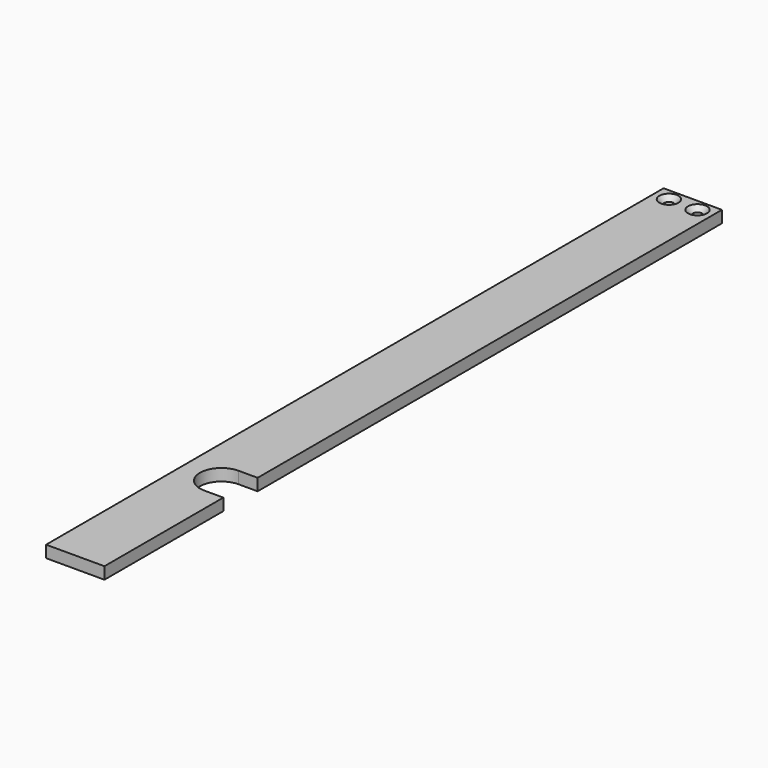
from build123d import *

# Parameters (mm, degrees)
PAD026_DEPTH    = 5
SKETCH058_R     = 2
POCKET036_DEPTH = 5.001
CHAMFER020_SIZE = 2


with BuildPart() as part:
    # Sketch053 → Pad026 (new body)
    with BuildSketch(Plane.XY):
        with BuildLine():
            Line((-81.323184, -45.417713), (-81.323184, -107.8))
            Line((-81.323184, -107.8), (-105.823184, -107.8))
            Line((-105.823184, -107.8), (-105.823184, 216.2))
            Line((-105.823184, 216.2), (-81.323184, 216.2))
            Line((-81.323184, 216.2), (-81.323184, -27.417713))
            Line((-89.323184, -27.417713), (-81.323184, -27.417713))
            ThreePointArc((-89.323184, -27.417713), (-98.323184, -36.417713), (-89.323184, -45.417713))
            Line((-89.323184, -45.417713), (-81.323184, -45.417713))
        make_face()
    extrude(amount=PAD026_DEPTH)

    # Sketch058 (on Face10 of Pad026) → Pocket036 (cut, through all)
    with BuildSketch(Plane.XY.offset(5)):
        with Locations((-99.573184, 211.2)):
            Circle(SKETCH058_R)
        with Locations((-87.573184, 211.2)):
            Circle(SKETCH058_R)
    extrude(amount=-POCKET036_DEPTH, mode=Mode.SUBTRACT)

    # Chamfer020
    chamfer020_edges = [part.edges().sort_by_distance(p)[0] for p in [
        (-89.573184, 211.2, 5),
        (-101.573184, 211.2, 5),
    ]]
    chamfer(chamfer020_edges, length=CHAMFER020_SIZE)


with BuildPart() as part_1:
    # Body019 placement: moved
    add(part.part.moved(Location((0, 0, 15.5))))


solid = part_1.part
